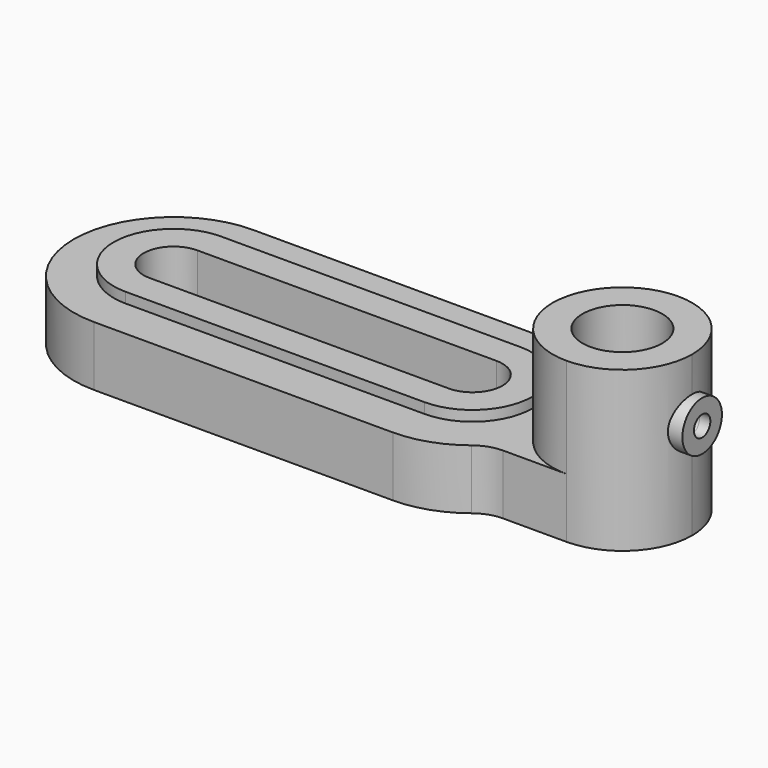
from build123d import *

# Parameters (mm, degrees)
F0_R     = 12.7
F1_DEPTH = 50.8
F2_DEPTH = 19.05
F3_DEPTH = 22.352
F5_R     = 7.874
F5_R_2   = 3.2639
F7_DEPTH = 19.05


with BuildPart() as f1:
    # F0 (on Top) → F1 (new body)
    with BuildSketch(Plane.XY):
        with BuildLine():
            ThreePointArc((0, -22.225), (15.7154482119, -15.7154482119), (22.225, 0))
            ThreePointArc((22.225, 0), (15.7154482119, 15.7154482119), (0, 22.225))
            ThreePointArc((0, 22.225), (-22.225, 0), (0, -22.225))
        make_face()
        Circle(F0_R, mode=Mode.SUBTRACT)
    extrude(amount=F1_DEPTH)

    # F0 (on Top) → F2 (join)
    with BuildSketch(Plane.XY):
        with BuildLine():
            ThreePointArc((0, -22.225), (15.7154482119, -15.7154482119), (22.225, 0))
            ThreePointArc((22.225, 0), (15.7154482119, 15.7154482119), (0, 22.225))
            ThreePointArc((0, 22.225), (-22.225, 0), (0, -22.225))
        make_face()
        Circle(F0_R, mode=Mode.SUBTRACT)
        with BuildLine():
            ThreePointArc((0, -22.225), (-22.225, 0), (0, 22.225))
            Line((0, 22.225), (-20.2556934298, 22.225))
            ThreePointArc((-20.2556934298, 22.225), (-24.4127442388, 22.924627982), (-28.1117810213, 24.9464285714))
            ThreePointArc((-28.1117810213, 24.9464285714), (-37.3593729775, 30.0009300451), (-47.752, 31.75))
            Line((-47.752, 31.75), (-143.002, 31.75))
            ThreePointArc((-143.002, 31.75), (-174.752, 0), (-143.002, -31.75))
            Line((-143.002, -31.75), (-47.752, -31.75))
            ThreePointArc((-47.752, -31.75), (-37.3593729775, -30.0009300451), (-28.1117810213, -24.9464285714))
            ThreePointArc((-28.1117810213, -24.9464285714), (-24.4127442388, -22.924627982), (-20.2556934298, -22.225))
            Line((-20.2556934298, -22.225), (0, -22.225))
        make_face()
        with BuildLine():
            Line((-143.002, 19.05), (-47.752, 19.05))
            ThreePointArc((-47.752, 19.05), (-28.702, 0), (-47.752, -19.05))
            Line((-47.752, -19.05), (-143.002, -19.05))
            ThreePointArc((-143.002, -19.05), (-162.052, 0), (-143.002, 19.05))
        make_face(mode=Mode.SUBTRACT)
    extrude(amount=F2_DEPTH)

    # F0 (on Top) → F3 (join)
    with BuildSketch(Plane.XY):
        with BuildLine():
            ThreePointArc((-47.752, -19.05), (-28.702, 0), (-47.752, 19.05))
            Line((-47.752, 19.05), (-143.002, 19.05))
            ThreePointArc((-143.002, 19.05), (-162.052, 0), (-143.002, -19.05))
            Line((-143.002, -19.05), (-47.752, -19.05))
        make_face()
        with BuildLine():
            Line((-143.002, 9.525), (-47.752, 9.525))
            ThreePointArc((-47.752, 9.525), (-38.227, 0), (-47.752, -9.525))
            Line((-47.752, -9.525), (-143.002, -9.525))
            ThreePointArc((-143.002, -9.525), (-152.527, 0), (-143.002, 9.525))
        make_face(mode=Mode.SUBTRACT)
    extrude(amount=F3_DEPTH)

    # F5 (on offset) → F6 (join, up to the next surface of F1)
    with BuildSketch(Plane.YZ.offset(25.4)):
        with Locations((0, 31.75)):
            Circle(F5_R)
        with Locations((0, 31.75)):
            Circle(F5_R_2, mode=Mode.SUBTRACT)
    extrude(until=Until.NEXT, dir=(-1, 0, 0))

    # F5 (on offset) → F7 (cut)
    with BuildSketch(Plane.YZ.offset(25.4)):
        with Locations((0, 31.75)):
            Circle(F5_R_2)
    extrude(amount=-F7_DEPTH, mode=Mode.SUBTRACT)


solid = f1.part
